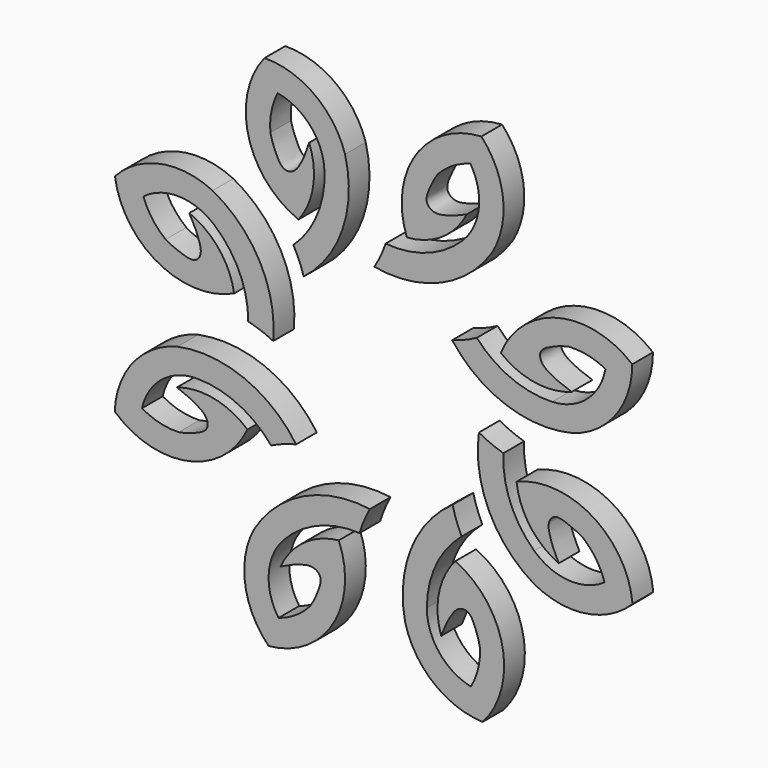
from build123d import *

# Parameters (mm, degrees)
F1_DEPTH = 0.5


with BuildPart() as f1:
    # F0 (on Front) → F1 (new body)
    with BuildSketch(Plane.XZ):
        with BuildLine():
            ThreePointArc((2.2695674508, 3.0624138631), (2.4853880473, 4.0523937231), (2.0655452154, 4.9745491598))
            ThreePointArc((2.0655452154, 4.9745491598), (0.795047176, 4.2448850878), (0.6259024128, 2.7895621081))
            ThreePointArc((0.6259024128, 2.7895621081), (1.3058388146, 3.0206113104), (1.7824899998, 3.5577341008))
            add(Edge.make_bspline(
                [(1.2271529412, 4.0650115261), (1.1522471768, 3.9582157112), (1.1135112999, 3.8702569304), (0.9836132774, 3.6004845847), (1.0261006807, 3.4477428546), (1.1763697185, 3.3672644546), (1.3688798609, 3.4053202023), (1.5512433645, 3.4555677732), (1.7016130659, 3.5221553355), (1.7824899998, 3.5577341008)],
                knots=[0, 0, 0, 0, 0.1596659756, 0.3227090771, 0.4414833311, 0.5641742699, 0.7020232023, 0.8404935325, 1, 1, 1, 1], degree=3))
            ThreePointArc((1.2271529412, 4.0650115261), (1.5137912384, 4.2978850866), (1.8537720418, 4.4421232991))
            ThreePointArc((1.8537720418, 4.4421232991), (2.0169951928, 3.7383286818), (1.7033930452, 3.0874659056))
            ThreePointArc((1.7033930452, 3.0874659056), (1.019074752, 2.6542124849), (0.215717385, 2.5511736868))
            ThreePointArc((0.215717385, 2.5511736868), (0.1194471121, 2.3127941338), (-0.001781144, 2.0860862015))
            ThreePointArc((-0.001781144, 2.0860862015), (1.2806928258, 2.2327322789), (2.2695674508, 3.0624138631))
        make_face()
    extrude(amount=F1_DEPTH)


with BuildPart() as f1b:
    # F0 (on Front) → F1, piece 2 (new body)
    with BuildSketch(Plane.XZ):
        with BuildLine():
            ThreePointArc((0.5932102005, -3.7667912497), (1.1406234654, -4.6194209293), (2.0895595415, -4.9746095784))
            ThreePointArc((2.0895595415, -4.9746095784), (2.4719869073, -3.5602813859), (1.5625215686, -2.4116092291))
            ThreePointArc((1.5625215686, -2.4116092291), (1.2451103858, -3.0557733273), (1.287870268, -3.7726197801))
            add(Edge.make_bspline(
                [(2.0392521754, -3.7386364875), (2.0167025044, -3.6101540686), (1.9818966553, -3.520567417), (1.8829905728, -3.2379577894), (1.7449427287, -3.1599962072), (1.5817796507, -3.2093456405), (1.4725639008, -3.3723803449), (1.3791438289, -3.5368612131), (1.3199009102, -3.6902731655), (1.287870268, -3.7726197801)],
                knots=[0, 0, 0, 0, 0.1596659756, 0.3227090771, 0.4414833311, 0.5641742699, 0.7020232023, 0.8404935325, 1, 1, 1, 1], degree=3))
            ThreePointArc((2.0392521754, -3.7386364875), (2.0012347654, -4.105986845), (1.862823852, -4.4483813947))
            ThreePointArc((1.862823852, -4.4483813947), (1.2497497086, -4.0661396451), (1.0112704311, -3.3841599573))
            ThreePointArc((1.0112704311, -3.3841599573), (1.188800105, -2.59391742), (1.684000114, -1.9529985452))
            ThreePointArc((1.684000114, -1.9529985452), (1.5835136784, -1.716365384), (1.5089282841, -1.4703373457))
            ThreePointArc((1.5089282841, -1.4703373457), (0.7057766791, -2.4808778222), (0.5932102005, -3.7667912497))
        make_face()
    extrude(amount=F1_DEPTH)


with BuildPart() as f1c:
    # F0 (on Front) → F1, piece 3 (new body)
    with BuildSketch(Plane.XZ):
        with BuildLine():
            ThreePointArc((-3.8099945255, -0.5103224409), (-4.6626242051, -1.0577357058), (-5.0178128542, -2.0066717819))
            ThreePointArc((-5.0178128542, -2.0066717819), (-3.6034846617, -2.3890991477), (-2.4548125049, -1.479633809))
            ThreePointArc((-2.4548125049, -1.479633809), (-3.0989766031, -1.1622226262), (-3.8158230559, -1.2049825084))
            add(Edge.make_bspline(
                [(-3.7818397632, -1.9563644158), (-3.6533573444, -1.9338147448), (-3.5637706928, -1.8990088957), (-3.2811610652, -1.8001028132), (-3.203199483, -1.6620549691), (-3.2525489163, -1.4988918911), (-3.4155836207, -1.3896761412), (-3.5800644889, -1.2962560693), (-3.7334764413, -1.2370131505), (-3.8158230559, -1.2049825084)],
                knots=[0, 0, 0, 0, 0.1596659756, 0.3227090771, 0.4414833311, 0.5641742699, 0.7020232023, 0.8404935325, 1, 1, 1, 1], degree=3))
            ThreePointArc((-3.7818397632, -1.9563644158), (-4.1491901208, -1.9183470058), (-4.4915846705, -1.7799360924))
            ThreePointArc((-4.4915846705, -1.7799360924), (-4.1093429209, -1.166861949), (-3.4273632331, -0.9283826715))
            ThreePointArc((-3.4273632331, -0.9283826715), (-2.6371206958, -1.1059123454), (-1.996201821, -1.6011123544))
            ThreePointArc((-1.996201821, -1.6011123544), (-1.7595686598, -1.5006259188), (-1.5135406215, -1.4260405245))
            ThreePointArc((-1.5135406215, -1.4260405245), (-2.524081098, -0.6228889195), (-3.8099945255, -0.5103224409))
        make_face()
    extrude(amount=F1_DEPTH)


with BuildPart() as f1d:
    # F0 (on Front) → F1, piece 4 (new body)
    with BuildSketch(Plane.XZ):
        with BuildLine():
            ThreePointArc((-0.568260898, 3.8155194758), (-1.1579671121, 4.6394643975), (-2.1236047072, 4.9463563784))
            ThreePointArc((-2.1236047072, 4.9463563784), (-2.4342359078, 3.5145452234), (-1.4680117809, 2.4131888493))
            ThreePointArc((-1.4680117809, 2.4131888493), (-1.1834827576, 3.0725373757), (-1.2623313175, 3.7863161573))
            add(Edge.make_bspline(
                [(-2.0110441405, 3.7144917627), (-1.9820451263, 3.5873097011), (-1.9427666288, 3.499591887), (-1.829737297, 3.2223285015), (-1.6879342458, 3.1514263843), (-1.527466866, 3.2089396575), (-1.4266101582, 3.3772736094), (-1.3416019533, 3.546255475), (-1.2901693429, 3.7024593071), (-1.2623313175, 3.7863161573)],
                knots=[0, 0, 0, 0, 0.1596659756, 0.3227090771, 0.4414833311, 0.5641742699, 0.7020232023, 0.8404935325, 1, 1, 1, 1], degree=3))
            ThreePointArc((-2.0110441405, 3.7144917627), (-1.991596717, 4.0832917171), (-1.8706252179, 4.4322293978))
            ThreePointArc((-1.8706252179, 4.4322293978), (-1.239058377, 4.0813847229), (-0.966497318, 3.4122964406))
            ThreePointArc((-0.966497318, 3.4122964406), (-1.1039575375, 2.6141080286), (-1.5662128847, 1.9490365687))
            ThreePointArc((-1.5662128847, 1.9490365687), (-1.4539233219, 1.717770854), (-1.3670281721, 1.4758162929))
            ThreePointArc((-1.3670281721, 1.4758162929), (-0.6158490526, 2.5255660182), (-0.568260898, 3.8155194758))
        make_face()
    extrude(amount=F1_DEPTH)


with BuildPart() as f1e:
    # F0 (on Front) → F1, piece 5 (new body)
    with BuildSketch(Plane.XZ):
        with BuildLine():
            ThreePointArc((-2.3213258776, -3.1254688842), (-2.4991871955, -4.1229677587), (-2.0444385116, -5.0284191862))
            ThreePointArc((-2.0444385116, -5.0284191862), (-0.8027288935, -4.2507739262), (-0.6892782612, -2.790053597))
            ThreePointArc((-0.6892782612, -2.790053597), (-1.3598962922, -3.0468973254), (-1.8156900956, -3.6018290809))
            add(Edge.make_bspline(
                [(-1.2413879079, -4.0875312861), (-1.1706147162, -3.9779531179), (-1.1352657509, -3.888579375), (-1.0157635833, -3.614043682), (-1.0640523668, -3.4630357056), (-1.2172848415, -3.3883539455), (-1.4082014478, -3.4337328421), (-1.5885132767, -3.4909072263), (-1.7362307019, -3.563188018), (-1.8156900956, -3.6018290809)],
                knots=[0, 0, 0, 0, 0.1596659756, 0.3227090771, 0.4414833311, 0.5641742699, 0.7020232023, 0.8404935325, 1, 1, 1, 1], degree=3))
            ThreePointArc((-1.2413879079, -4.0875312861), (-1.5189250021, -4.3311801523), (-1.8531501961, -4.4882951685))
            ThreePointArc((-1.8531501961, -4.4882951685), (-2.0431283523, -3.791246418), (-1.75460778, -3.128883572))
            ThreePointArc((-1.75460778, -3.128883572), (-1.0873321194, -2.6698157711), (-0.2884951206, -2.5361763223))
            ThreePointArc((-0.2884951206, -2.5361763223), (-0.2013974601, -2.2942945862), (-0.0889143431, -2.0631229507))
            ThreePointArc((-0.0889143431, -2.0631229507), (-1.364853406, -2.2586327023), (-2.3213258776, -3.1254688842))
        make_face()
    extrude(amount=F1_DEPTH)


with BuildPart() as f1f:
    # F0 (on Front) → F1, piece 6 (new body)
    with BuildSketch(Plane.XZ):
        with BuildLine():
            ThreePointArc((3.8329332791, 0.5040715362), (4.6628891361, 1.0852874413), (4.9796788934, 2.0477233627))
            ThreePointArc((4.9796788934, 2.0477233627), (3.5511323712, 2.3730382256), (2.4399140707, 1.4181723635))
            ThreePointArc((2.4399140707, 1.4181723635), (3.0963066608, 1.1268889756), (3.8108573409, 1.1984051981))
            add(Edge.make_bspline(
                [(3.7467235722, 1.9478159631), (3.6192504883, 1.9201242226), (3.5311340352, 1.8817483712), (3.2527248198, 1.771571588), (3.1803705843, 1.6305039441), (3.2362333493, 1.4694545477), (3.4035229596, 1.3668749145), (3.5716231619, 1.2801362968), (3.7272907161, 1.2271026929), (3.8108573409, 1.1984051981)],
                knots=[0, 0, 0, 0, 0.1596659756, 0.3227090771, 0.4414833311, 0.5641742699, 0.7020232023, 0.8404935325, 1, 1, 1, 1], degree=3))
            ThreePointArc((3.7467235722, 1.9478159631), (4.1153044276, 1.9245831911), (4.4629817347, 1.8000356149))
            ThreePointArc((4.4629817347, 1.8000356149), (4.1056714178, 1.1721040917), (3.4338200857, 0.9064267539))
            ThreePointArc((3.4338200857, 0.9064267539), (2.6370850102, 1.0520745221), (1.9767944582, 1.5211336228))
            ThreePointArc((1.9767944582, 1.5211336228), (1.7443880845, 1.4112243233), (1.5015541454, 1.326817838))
            ThreePointArc((1.5015541454, 1.326817838), (2.5435363829, 0.5649008006), (3.8329332791, 0.5040715362))
        make_face()
    extrude(amount=F1_DEPTH)


with BuildPart() as f1g:
    # F0 (on Front) → F1, piece 7 (new body)
    with BuildSketch(Plane.XZ):
        with BuildLine():
            ThreePointArc((-3.1267156466, 2.3651326869), (-4.1317383387, 2.4938495909), (-5.0137929817, 1.9952332457))
            ThreePointArc((-5.0137929817, 1.9952332457), (-4.1761743015, 0.7931642491), (-2.7116473276, 0.751502888))
            ThreePointArc((-2.7116473276, 0.751502888), (-3.00107768, 1.4087146617), (-3.5776994442, 1.8367387095))
            add(Edge.make_bspline(
                [(-4.0346457119, 1.2393027352), (-3.9217278198, 1.1739898785), (-3.8307276946, 1.1430675161), (-3.5506605555, 1.037176004), (-3.402203075, 1.0928140488), (-3.3351277292, 1.2495254223), (-3.3898170277, 1.4379862285), (-3.4557674181, 1.6152764195), (-3.5352071776, 1.7592704304), (-3.5776994442, 1.8367387095)],
                knots=[0, 0, 0, 0, 0.1596659756, 0.3227090771, 0.4414833311, 0.5641742699, 0.7020232023, 0.8404935325, 1, 1, 1, 1], degree=3))
            ThreePointArc((-4.0346457119, 1.2393027352), (-4.2916152919, 1.5045540191), (-4.4649359139, 1.8306699043))
            ThreePointArc((-4.4649359139, 1.8306699043), (-3.7780452825, 2.0546116845), (-3.1023270076, 1.7989293165))
            ThreePointArc((-3.1023270076, 1.7989293165), (-2.6110799779, 1.1549755847), (-2.4384160655, 0.363655658))
            ThreePointArc((-2.4384160655, 0.363655658), (-2.1925531116, 0.2885278696), (-1.9561421326, 0.1875198218))
            ThreePointArc((-1.9561421326, 0.1875198218), (-2.2140051488, 1.4523325431), (-3.1267156466, 2.3651326869))
        make_face()
    extrude(amount=F1_DEPTH)


with BuildPart() as f1h:
    # F0 (on Front) → F1, piece 8 (new body)
    with BuildSketch(Plane.XZ):
        with BuildLine():
            ThreePointArc((3.0837530583, -2.3063576468), (4.0815672397, -2.4824414693), (4.9862070183, -2.0260802922))
            ThreePointArc((4.9862070183, -2.0260802922), (4.2063506767, -0.7857581516), (2.7454305344, -0.6749102198))
            ThreePointArc((2.7454305344, -0.6749102198), (3.0034686747, -1.3450695759), (3.5592116232, -1.799873951))
            add(Edge.make_bspline(
                [(4.043889841, -1.2247073141), (3.9341857522, -1.1541294669), (3.844749171, -1.1189397921), (3.5700010004, -0.999926946), (3.4190792983, -1.0484846991), (3.3446706664, -1.2018499887), (3.3903896412, -1.3926854419), (3.4478851907, -1.5728951187), (3.5204290512, -1.7204835291), (3.5592116232, -1.799873951)],
                knots=[0, 0, 0, 0, 0.1596659756, 0.3227090771, 0.4414833311, 0.5641742699, 0.7020232023, 0.8404935325, 1, 1, 1, 1], degree=3))
            ThreePointArc((4.043889841, -1.2247073141), (4.2880327998, -1.5018098661), (4.4457430453, -1.8357546027))
            ThreePointArc((4.4457430453, -1.8357546027), (3.7490338794, -2.0269743676), (3.0861580364, -1.7396343648))
            ThreePointArc((3.0861580364, -1.7396343648), (2.6259020997, -1.0731776703), (2.4908395996, -0.2745800407))
            ThreePointArc((2.4908395996, -0.2745800407), (2.2488030682, -0.1879134717), (2.0174313919, -0.0758424047))
            ThreePointArc((2.0174313919, -0.0758424047), (2.2152141346, -1.3514311087), (3.0837530583, -2.3063576468))
        make_face()
    extrude(amount=F1_DEPTH)


solid = Compound([f1.part, f1b.part, f1c.part, f1d.part, f1e.part, f1f.part, f1g.part, f1h.part])
